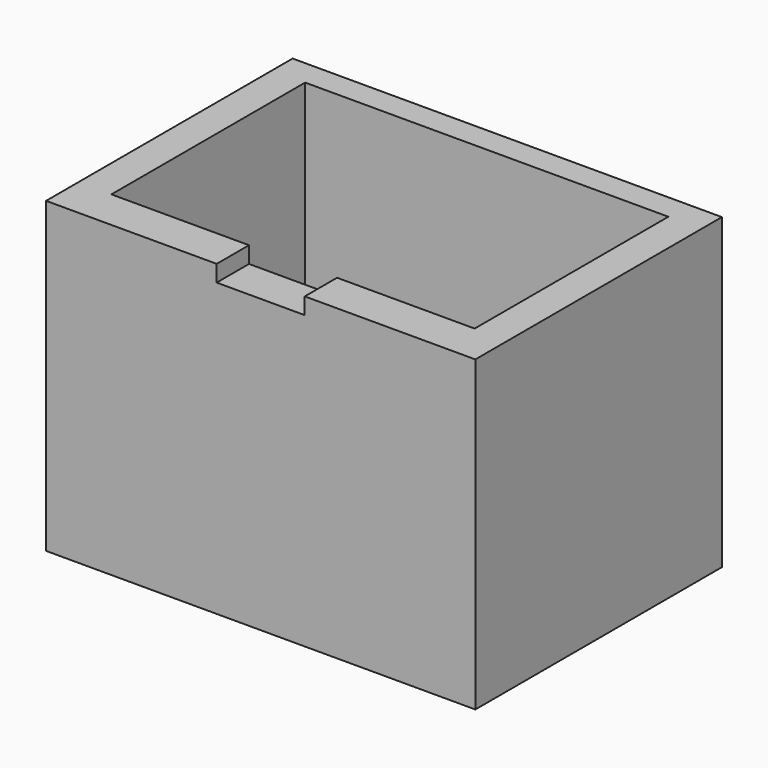
from build123d import *

# Parameters (mm, degrees)
F0_W     = 99.06
F0_H     = 71.12
F1_DEPTH = 71.12
F2_W     = 41.91
F2_H     = 27.94
F3_DEPTH = 66.04
F4_W     = 20.32
F4_H     = 3.81
F5_DEPTH = 10.16


with BuildPart() as f1:
    # F0 (on Top) → F1 (new body)
    with BuildSketch(Plane.XY):
        with Locations((0, -1.696959)):
            Rectangle(F0_W, F0_H)
    extrude(amount=F1_DEPTH)

    # F2 (on face) → F3 (cut)
    with BuildSketch(Plane.XY.offset(71.12)):
        with Locations((-20.955, 13.97)):
            Rectangle(F2_W, F2_H)
        with Locations((20.955, 13.97)):
            Rectangle(F2_W, F2_H)
        with Locations((20.955, -13.97)):
            Rectangle(F2_W, F2_H)
        with Locations((-20.955, -13.97)):
            Rectangle(F2_W, F2_H)
    extrude(amount=-F3_DEPTH, mode=Mode.SUBTRACT)

    # F4 (on face) → F5 (cut)
    with BuildSketch(Plane.XZ.offset(37.256959)):
        with Locations((0, 69.215)):
            Rectangle(F4_W, F4_H)
    extrude(amount=-F5_DEPTH, mode=Mode.SUBTRACT)


solid = f1.part
